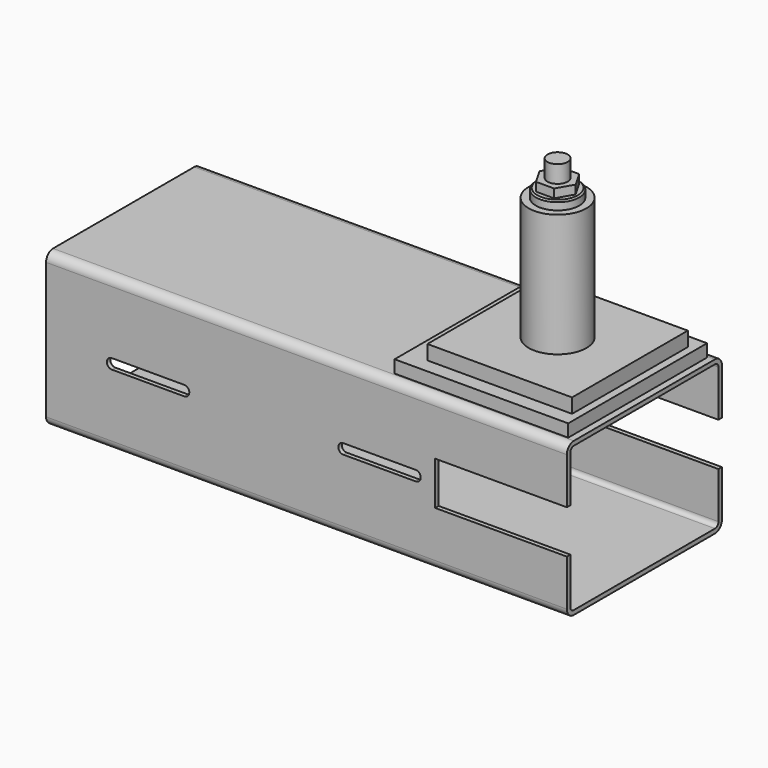
from build123d import *

# Parameters (mm, degrees)
F0_R           = 20
F1_DEPTH       = 85
F2_W           = 100
F2_H           = 100
F3_DEPTH       = 10
F4_W           = 120
F4_H           = 120
F5_DEPTH       = 10
F6_R           = 15
F7_DEPTH       = 6
F8_SIZE        = 1
F10_DEPTH      = 6
F11_R          = 7
F12_DEPTH      = 12
F14_DEPTH      = 60
F14_DEPTH_BACK = 300
F16_DEPTH      = 134.001
F17_W          = 182
F17_H          = 30
F18_DEPTH      = 134.001


with BuildPart() as f1:
    # F0 (on Top) → F1 (new body)
    with BuildSketch(Plane.XY):
        Circle(F0_R)
    extrude(amount=F1_DEPTH)

    # F2 (on Top) → F3 (join)
    with BuildSketch(Plane.XY):
        Rectangle(F2_W, F2_H)
    extrude(amount=-F3_DEPTH)

    # F4 (on face) → F5 (join)
    with BuildSketch(Plane(origin=(0, 0, -10), x_dir=(1, 0, 0), z_dir=(0, 0, -1))):
        with Locations((-4.663671, 0)):
            Rectangle(F4_W, F4_H)
    extrude(amount=F5_DEPTH)

    # F6 (on face) → F7 (join)
    with BuildSketch(Plane.XY.offset(85)):
        Circle(F6_R)
    extrude(amount=F7_DEPTH)

    # F8
    f8_edges = [f1.edges().sort_by_distance(p)[0] for p in [
        (-15, 0, 91),
    ]]
    chamfer(f8_edges, length=F8_SIZE)

    # F9 (on face) → F10 (join)
    with BuildSketch(Plane.XY.offset(91)):
        Polygon((-6.25, 10.825318), (-12.5, 0), (-6.25, -10.825318), (6.25, -10.825318), (12.5, 0), (6.25, 10.825318), align=None)
    extrude(amount=F10_DEPTH)

    # F11 (on face) → F12 (join)
    with BuildSketch(Plane.XY.offset(97)):
        Circle(F11_R)
    extrude(amount=F12_DEPTH)

    # F13 (on Right) → F14 (join, two sides)
    with BuildSketch(Plane.YZ) as f14_sk:
        with BuildLine():
            Line((61, -18.70025), (-61, -18.70025))
            ThreePointArc((-61, -18.70025), (-65.242641, -20.457609), (-67, -24.70025))
            Line((-67, -24.70025), (-67, -118.70025))
            ThreePointArc((-67, -118.70025), (-65.242641, -122.94289), (-61, -124.70025))
            Line((-61, -124.70025), (61, -124.70025))
            ThreePointArc((61, -124.70025), (65.242641, -122.94289), (67, -118.70025))
            Line((67, -118.70025), (67, -24.70025))
            ThreePointArc((67, -24.70025), (65.242641, -20.457609), (61, -18.70025))
        make_face()
        with BuildLine():
            Line((-64, -118.70025), (-64, -24.70025))
            ThreePointArc((-64, -24.70025), (-63.12132, -22.578929), (-61, -21.70025))
            Line((-61, -21.70025), (61, -21.70025))
            ThreePointArc((61, -21.70025), (63.12132, -22.578929), (64, -24.70025))
            Line((64, -24.70025), (64, -118.70025))
            ThreePointArc((64, -118.70025), (63.12132, -120.82157), (61, -121.70025))
            Line((61, -121.70025), (-61, -121.70025))
            ThreePointArc((-61, -121.70025), (-63.12132, -120.82157), (-64, -118.70025))
        make_face(mode=Mode.SUBTRACT)
    extrude(amount=F14_DEPTH)
    extrude(f14_sk.sketch, amount=-F14_DEPTH_BACK)

    # F15 (on face) → F16 (cut, through all)
    with BuildSketch(Plane.XZ.offset(67)):
        with BuildLine():
            ThreePointArc((-254.5, -68.2), (-258, -71.7), (-254.5, -75.2))
            Line((-254.5, -75.2), (-204.5, -75.2))
            ThreePointArc((-204.5, -75.2), (-201, -71.7), (-204.5, -68.2))
            Line((-204.5, -68.2), (-254.5, -68.2))
        make_face()
        with BuildLine():
            Line((-44.500257, -67.913005), (-94.500257, -67.913005))
            ThreePointArc((-94.500257, -67.913005), (-98.000257, -71.413005), (-94.500257, -74.913005))
            Line((-94.500257, -74.913005), (-44.500257, -74.913005))
            ThreePointArc((-44.500257, -74.913005), (-41.000257, -71.413005), (-44.500257, -67.913005))
        make_face()
    extrude(amount=-F16_DEPTH, mode=Mode.SUBTRACT)

    # F17 (on face) → F18 (cut, through all)
    with BuildSketch(Plane.XZ.offset(67)):
        with Locations((60, -71.70025)):
            Rectangle(F17_W, F17_H)
    extrude(amount=-F18_DEPTH, mode=Mode.SUBTRACT)


solid = f1.part
